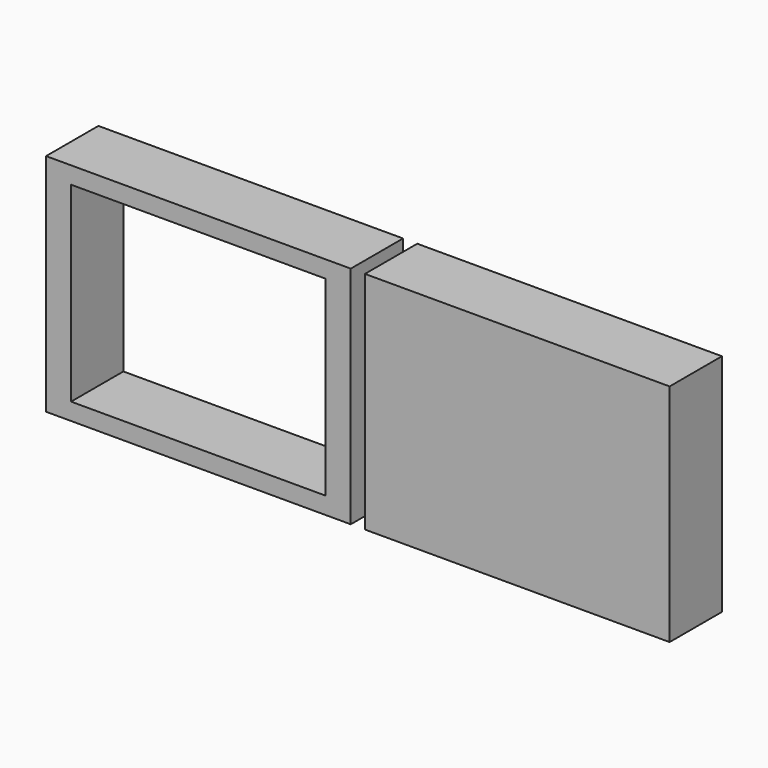
from build123d import *

# Parameters (mm, degrees)
F0_W     = 69.845863
F0_H     = 51.602543
F0_W_2   = 58.378622
F0_H_2   = 43.783974
F0_W_3   = 69.84586
F0_H_3   = 51.602539
F1_DEPTH = 7.493


with BuildPart() as f1:
    # F0 (on Front) → F1 (new body, symmetric)
    with BuildSketch(Plane.XZ):
        with Locations((-36.226026, 41.764178)):
            Rectangle(F0_W, F0_H)
        with Locations((-36.226027, 41.764177)):
            Rectangle(F0_W_2, F0_H_2, mode=Mode.SUBTRACT)
        with Locations((36.877576, 41.764177)):
            Rectangle(F0_W_3, F0_H_3)
    extrude(amount=F1_DEPTH, both=True)


solid = f1.part
